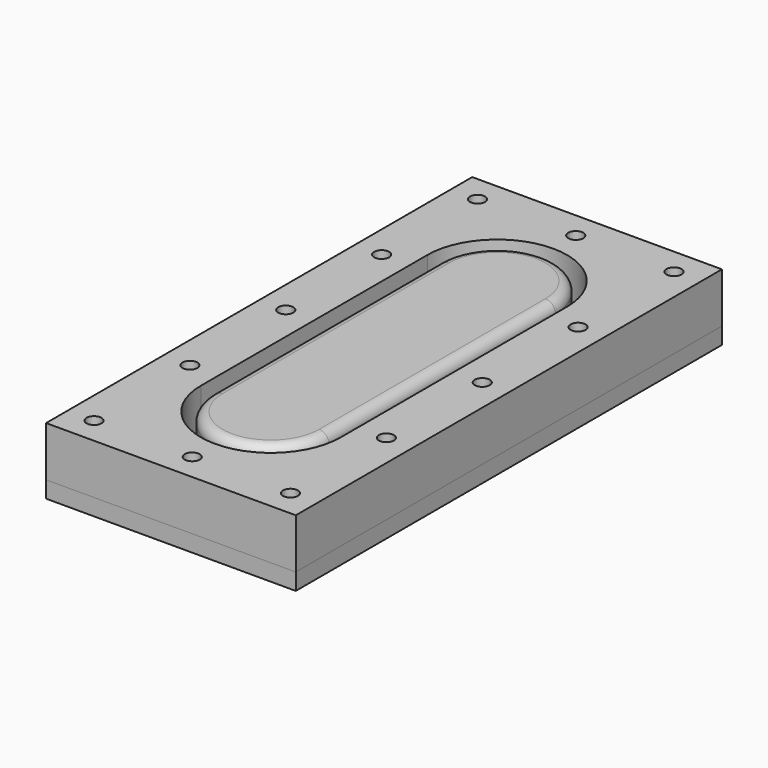
from build123d import *

# Parameters (mm, degrees)
F0_W           = 75
F0_H           = 160
F1_DEPTH       = 5
F2_DEPTH       = 15
F3_DEPTH       = 15
F4_D           = 4.5
F4_CSINK_D     = 8.5
F4_CSINK_ANGLE = 90
F5_D           = 4.5
F5_CSINK_D     = 8.5
F5_CSINK_ANGLE = 90
F6_R           = 3


with BuildPart() as f1:
    # F0 (on Top) → F1 (new body)
    with BuildSketch(Plane.XY):
        Rectangle(F0_W, F0_H)
        with BuildLine():
            ThreePointArc((-21, 42.5), (0, 63.5), (21, 42.5))
            Line((21, 42.5), (21, -42.5))
            ThreePointArc((21, -42.5), (0, -63.5), (-21, -42.5))
            Line((-21, -42.5), (-21, 42.5))
        make_face(mode=Mode.SUBTRACT)
        with BuildLine():
            Line((21, -42.5), (21, 42.5))
            ThreePointArc((21, 42.5), (0, 63.5), (-21, 42.5))
            Line((-21, 42.5), (-21, -42.5))
            ThreePointArc((-21, -42.5), (0, -63.5), (21, -42.5))
        make_face()
        with BuildLine():
            Line((-17.5, -42.5), (-17.5, 42.5))
            ThreePointArc((-17.5, 42.5), (0, 60), (17.5, 42.5))
            Line((17.5, 42.5), (17.5, -42.5))
            ThreePointArc((17.5, -42.5), (0, -60), (-17.5, -42.5))
        make_face(mode=Mode.SUBTRACT)
        with BuildLine():
            ThreePointArc((17.5, 42.5), (0, 60), (-17.5, 42.5))
            Line((-17.5, 42.5), (-17.5, -42.5))
            ThreePointArc((-17.5, -42.5), (0, -60), (17.5, -42.5))
            Line((17.5, -42.5), (17.5, 42.5))
        make_face()
    extrude(amount=-F1_DEPTH)

    # F0 (on Top) → F2 (join)
    with BuildSketch(Plane.XY):
        with BuildLine():
            ThreePointArc((17.5, 42.5), (0, 60), (-17.5, 42.5))
            Line((-17.5, 42.5), (-17.5, -42.5))
            ThreePointArc((-17.5, -42.5), (0, -60), (17.5, -42.5))
            Line((17.5, -42.5), (17.5, 42.5))
        make_face()
    extrude(amount=F2_DEPTH)

    # F4 (through all)
    with Locations(Plane.XY):
        with Locations((-29.5, 72), (-29.5, 36), (-29.5, 0), (-29.5, -36), (-29.5, -72), (0, -72), (29.5, -72), (29.5, -36), (29.5, 0), (29.5, 36), (29.5, 72), (0, 72)):
            CounterSinkHole(F4_D / 2, F4_CSINK_D / 2, counter_sink_angle=F4_CSINK_ANGLE)

    # F6
    f6_edges = [f1.edges().sort_by_distance(p)[0] for p in [
        (17.5, 0, 15),
    ]]
    fillet(f6_edges, radius=F6_R)


with BuildPart() as f3:
    # F0 (on Top) → F3 (new body, through all)
    with BuildSketch(Plane.XY):
        Rectangle(F0_W, F0_H)
        with BuildLine():
            ThreePointArc((-21, 42.5), (0, 63.5), (21, 42.5))
            Line((21, 42.5), (21, -42.5))
            ThreePointArc((21, -42.5), (0, -63.5), (-21, -42.5))
            Line((-21, -42.5), (-21, 42.5))
        make_face(mode=Mode.SUBTRACT)
    extrude(amount=F3_DEPTH)

    # F5 (through all)
    with Locations(Plane(origin=(0, 0, 0), x_dir=(1, 0, 0), z_dir=(0, 0, -1))):
        with Locations((-29.5, -72), (-29.5, -36), (-29.5, 0), (-29.5, 36), (-29.5, 72), (0, 72), (29.5, 72), (29.5, 36), (29.5, 0), (29.5, -36), (29.5, -72), (0, -72)):
            CounterSinkHole(F5_D / 2, F5_CSINK_D / 2, counter_sink_angle=F5_CSINK_ANGLE)


solid = Compound([f1.part, f3.part])
